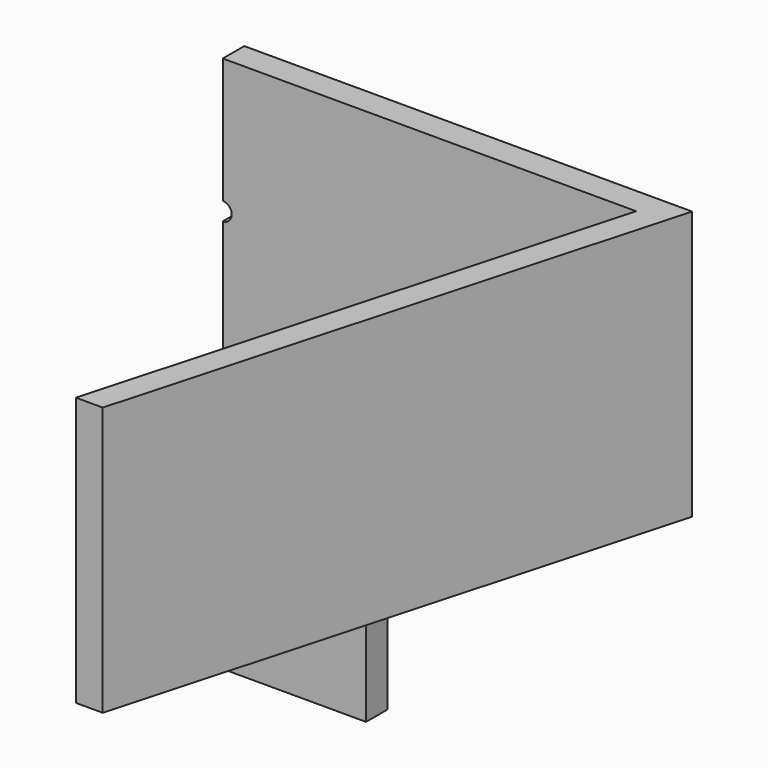
from build123d import *

# Parameters (mm, degrees)
SKETCH005_R      = 0.5
SKETCH005_W      = 18
SKETCH005_H      = 16
EXTRUDE005_DEPTH = 32
EXTRUDE003_DEPTH = 15


with BuildPart() as extrude005:
    # Sketch005 → Extrude005 (new body)
    with BuildSketch(Plane(origin=(0, 31, 0), x_dir=(-1, 0, 0), z_dir=(0, 1, 0))):
        with Locations((0, 7.5)):
            Circle(SKETCH005_R)
        with Locations((17, -8)):
            Rectangle(SKETCH005_W, SKETCH005_H)
    extrude(amount=-EXTRUDE005_DEPTH)


with BuildPart() as body003:
    # Sketch003 → Extrude003 (new body, symmetric)
    with BuildSketch(Plane.XY):
        Polygon((-15, 0), (-23.081967, 29), (0, 29), (0, 30.5), (-25, 30.5), (-16.5, 0), align=None)
    extrude(amount=EXTRUDE003_DEPTH, both=True)

    # Cut001: cut Extrude005
    add(extrude005.part, mode=Mode.SUBTRACT)


with BuildPart() as part_mirroring001:
    # Part__Mirroring001: instance of Body003
    add(body003.part.mirror(Plane(origin=(0, 0, 0), x_dir=(0, -1, 0), z_dir=(1, 0, 0))))


solid = part_mirroring001.part
